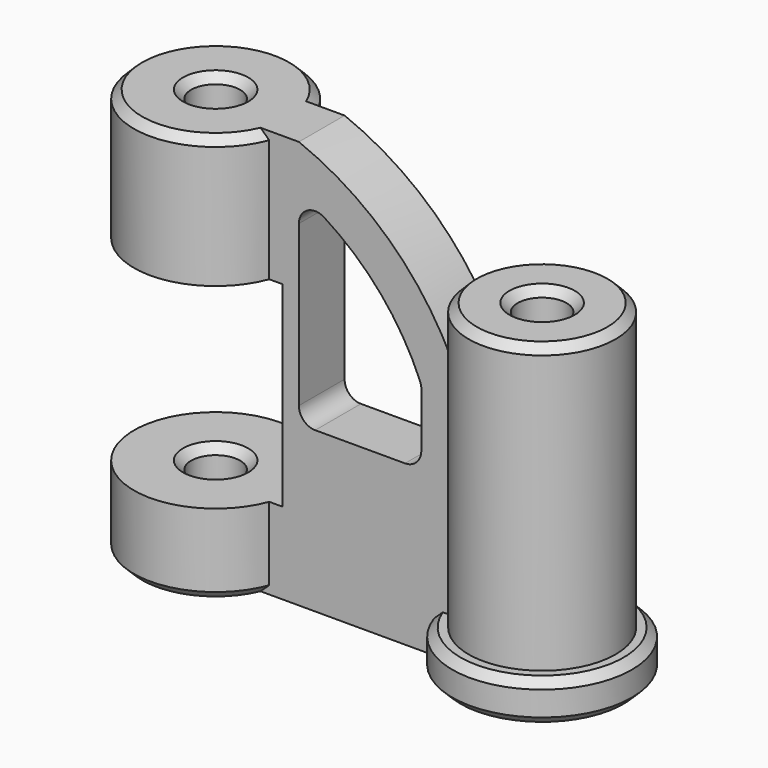
from build123d import *

# Parameters (mm, degrees)
F0_R      = 25.4
F0_R_2    = 7.62
F1_DEPTH  = 127
F0_R_3    = 22.86
F2_DEPTH  = 101.6
F4_DEPTH  = 8.89
F5_W      = 60.96
F5_H      = 60.96
F6_DEPTH  = 50.8
F7_R      = 5.08
F8_SIZE   = 2.54
F9_R      = 27.94
F9_R_2    = 22.86
F10_DEPTH = 12.7
F11_SIZE  = 2.54


with BuildPart() as f1:
    # F0 (on Top) → F1 (new body)
    with BuildSketch(Plane.XY):
        Circle(F0_R)
        Circle(F0_R_2, mode=Mode.SUBTRACT)
    extrude(amount=F1_DEPTH)



with BuildPart() as f2:
    # F0 (on Top) → F2 (new body)
    with BuildSketch(Plane.XY):
        with Locations((101.6, 0)):
            Circle(F0_R_3)
        with Locations((101.6, 0)):
            Circle(F0_R_2, mode=Mode.SUBTRACT)
    extrude(amount=F2_DEPTH)


with BuildPart() as f1_1:
    add(f1.part)

    add(f2.part)  # F4 merges F2
    # F3 (on Front) → F4 (join, symmetric)
    with BuildSketch(Plane.XZ):
        with BuildLine():
            Line((20.32, 127), (20.32, 0))
            Line((20.32, 0), (81.28, 0))
            Line((81.28, 0), (81.28, 81.28))
            ThreePointArc((81.28, 81.28), (61.5844056789, 108.82076155), (33.02, 127))
            Line((33.02, 127), (20.32, 127))
        make_face()
        with BuildLine():
            ThreePointArc((33.02, 113.1692568198), (55.8815349001, 96.5627163287), (71.12, 72.7674195988))
            Line((71.12, 72.7674195988), (71.12, 49.6692568198))
            Line((71.12, 49.6692568198), (33.02, 49.6692568198))
            Line((33.02, 49.6692568198), (33.02, 113.1692568198))
        make_face(mode=Mode.SUBTRACT)
    extrude(amount=F4_DEPTH, both=True)

    # F5 (on Front) → F6 (cut, symmetric)
    with BuildSketch(Plane.XZ):
        with Locations((-2.54, 55.88)):
            Rectangle(F5_W, F5_H)
    extrude(amount=F6_DEPTH, both=True, mode=Mode.SUBTRACT)

    # F7
    f7_edges = [f1_1.edges().sort_by_distance(p)[0] for p in [
        (33.02, 0, 49.669257),
        (71.12, 0, 49.669257),
        (71.12, 0, 72.76742),
        (33.02, 0, 113.169257),
    ]]
    fillet(f7_edges, radius=F7_R)

    # F8
    f8_edges = [f1_1.edges().sort_by_distance(p)[0] for p in [
        (-25.4, 0, 127),
        (-7.62, 0, 127),
        (-7.62, 0, 25.4),
        (-7.62, 0, 86.36),
        (-25.4, 0, 0),
        (-7.62, 0, 0),
    ]]
    chamfer(f8_edges, length=F8_SIZE)

    # F9 (on Top) → F10 (join)
    with BuildSketch(Plane.XY):
        with Locations((101.6, 0)):
            Circle(F9_R)
        with Locations((101.6, 0)):
            Circle(F9_R_2, mode=Mode.SUBTRACT)
    extrude(amount=F10_DEPTH)

    # F11
    f11_edges = [f1_1.edges().sort_by_distance(p)[0] for p in [
        (93.98, 0, 101.6),
        (78.74, 0, 101.6),
        (129.54, 0, 12.7),
        (129.54, 0, 0),
        (93.98, 0, 0),
    ]]
    chamfer(f11_edges, length=F11_SIZE)


solid = f1_1.part
